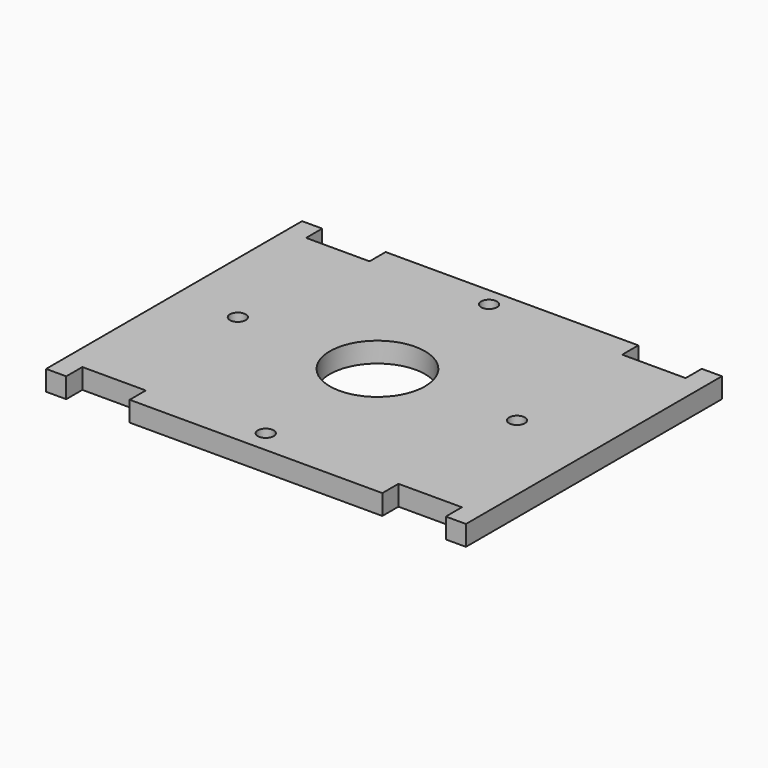
from build123d import *

# Parameters (mm, degrees)
F0_R     = 1.25
F0_R_2   = 7.5
F1_DEPTH = 3.175


with BuildPart() as f1:
    # F0 (on Top) → F1 (new body)
    with BuildSketch(Plane.XY):
        Polygon((-28.653005, 24.935823), (-31.82862, 24.935823), (-31.82862, -25.495171), (-28.653005, -25.495171), (-28.653005, -22.319556), (-18.653005, -22.319556), (-18.653005, -25.495171), (21.170266, -25.495171), (21.170266, -22.319556), (31.170266, -22.319556), (31.170266, -25.495171), (34.34638, -25.495171), (34.34638, 24.935823), (31.170266, 24.935823), (31.170266, 21.760208), (21.170266, 21.760208), (21.170266, 24.935823), (-18.653005, 24.935823), (-18.653005, 21.760208), (-28.653005, 21.760208), align=None)
        with Locations((0, -22)):
            Circle(F0_R, mode=Mode.SUBTRACT)
        with Locations((-22, 0)):
            Circle(F0_R, mode=Mode.SUBTRACT)
        Circle(F0_R_2, mode=Mode.SUBTRACT)
        with Locations((0, 22)):
            Circle(F0_R, mode=Mode.SUBTRACT)
        with Locations((22, 0)):
            Circle(F0_R, mode=Mode.SUBTRACT)
    extrude(amount=F1_DEPTH)


solid = f1.part
